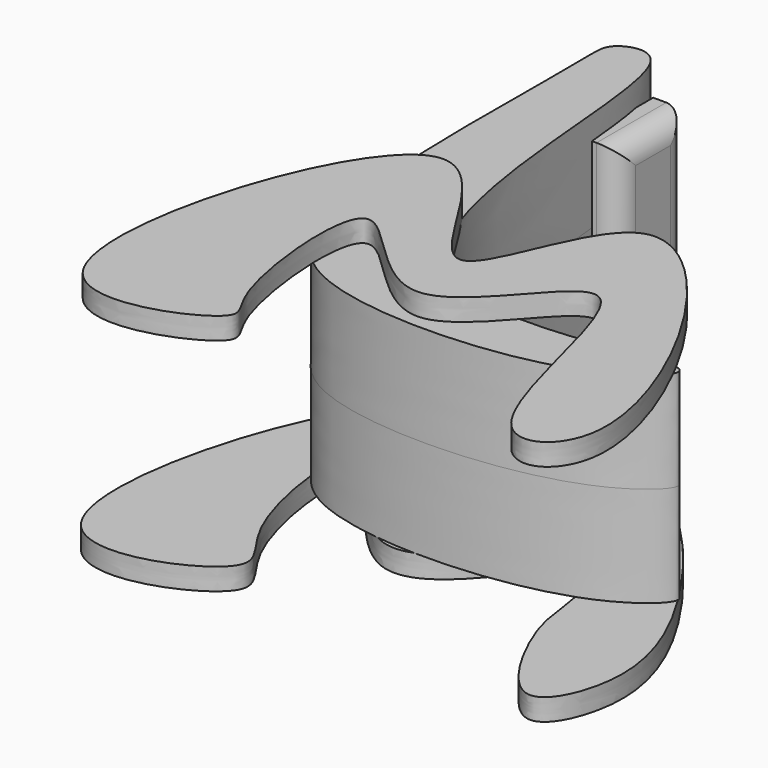
from build123d import *

# Parameters (mm, degrees)
F1_DEPTH  = 23
F5_DEPTH  = 5
F7_DEPTH  = 5
F9_W      = 20
F9_H      = 35
F10_DEPTH = 8
F11_R     = 5


with BuildPart() as f1:
    # F0 (on Top) → F1 (new body, symmetric)
    with BuildSketch(Plane.XY):
        with BuildLine():
            add(Edge.make_bspline(
                [(-40.8651791513, 60.6626905501), (-32.5835613176, 50.1094918948), (-44.5833784843, -55.292338674), (50.3495072664, -20.8156328999), (25.2492235834, -46.5135191648), (-35.9582594988, -48.8817508549), (-52.6319110584, -20.7850339433), (-49.8767319037, 51.7491902642), (-51.1730602798, 61.3817997811), (-43.3744571029, 63.8602431583), (-40.8651791513, 60.6626905501)],
                knots=[0, 0, 0, 0, 0.1967947448, 0.3525844264, 0.4318293235, 0.5911392964, 0.7051042206, 0.8802890962, 0.940372434, 1, 1, 1, 1], degree=3))
        make_face()
    extrude(amount=F1_DEPTH, both=True)

    # F4 (on offset) → F5 (join)
    with BuildSketch(Plane.XY.offset(23)):
        with BuildLine():
            add(Edge.make_bspline(
                [(-62.7390816808, -74.8362243176), (-74.408526062, -59.8814914584), (-42.4497309913, 41.4452203806), (-10.9547242678, -56.0502641601), (2.5007741554, 35.8143335592), (62.0590799724, -65.0126364568), (26.9637856138, -85.9917411292), (20.4114338565, 3.7071538793), (-9.8504440593, -62.1357687333), (-43.3559281764, -5.6313399433), (-37.5808752547, -65.1178997422), (-25.7166278271, -71.8226592165), (-55.4470823007, -84.1811339101), (-62.7390816808, -74.8362243176)],
                knots=[0, 0, 0, 0, 0.132463611, 0.2264513464, 0.3148952444, 0.4458934426, 0.5051921959, 0.6148062227, 0.6994075858, 0.7814774156, 0.8714820245, 0.9172261731, 1, 1, 1, 1], degree=3))
        make_face()
    extrude(amount=F5_DEPTH)

    # F6 (on offset) → F7 (join)
    with BuildSketch(Plane.XY.offset(-23)):
        with BuildLine():
            add(Edge.make_bspline(
                [(-63.2637962699, -74.6850669384), (-74.9239806173, -59.6329124251), (-42.9348909143, 40.4605396157), (-14.0278901935, -53.3062994007), (-4.6688614201, 23.1909203173), (43.5328349047, -31.7138025392), (51.8908145501, -61.7584916322), (40.1574144197, -84.4275343173), (23.7496221975, -53.6512232774), (25.1331718775, -43.7677159151), (15.8190271329, -16.5070685488), (4.3896640366, -33.2744482819), (-17.1062726927, -59.8370204778), (-47.6937209402, -4.2165644767), (-40.7616814515, -58.628399131), (-21.7894552209, -69.9621677607), (-55.8039695423, -84.314971681), (-63.2637962699, -74.6850669384)],
                knots=[0, 0, 0, 0, 0.1099612533, 0.1860143836, 0.2568682083, 0.3438954366, 0.4186638687, 0.4646335962, 0.526994571, 0.5736025232, 0.6295291705, 0.6757820205, 0.7387970603, 0.810240209, 0.8801889503, 0.9296501777, 1, 1, 1, 1], degree=3))
        make_face()
    extrude(amount=-F7_DEPTH)

    # F9 (on offset) → F10 (join)
    with BuildSketch(Plane.YZ.offset(-38)):
        with Locations((47.8015914559, 0)):
            Rectangle(F9_W, F9_H)
    extrude(amount=F10_DEPTH)

    # F11
    f11_edges = [f1.edges().sort_by_distance(p)[0] for p in [
        (-30, 37.801591, 0),
        (-30, 47.801591, -17.5),
        (-30, 57.801591, 0),
        (-30, 47.801591, 17.5),
    ]]
    fillet(f11_edges, radius=F11_R)


solid = f1.part
